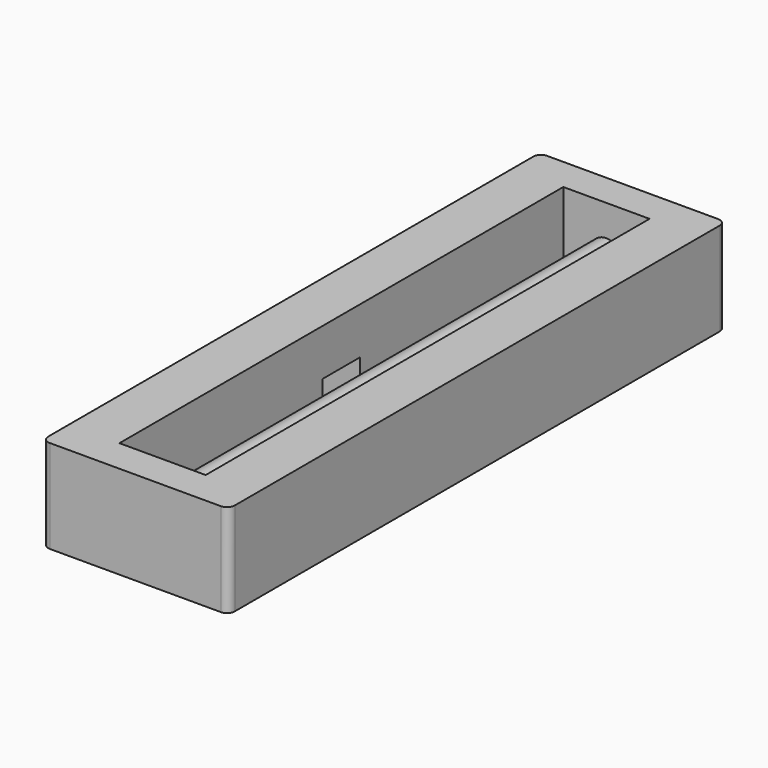
from build123d import *

# Parameters (mm, degrees)
F0_W     = 6
F0_H     = 20
F1_DEPTH = 3
F2_R     = 0.25
F3_W     = 2.773765591
F3_H     = 17.8463058546
F4_DEPTH = 5.9
F6_R     = 0.5
F7_DEPTH = 19.2
F8_W     = 1.5
F8_H     = 3
F9_DEPTH = 3.6


with BuildPart() as f1:
    # F0 (on Top) → F1 (new body)
    with BuildSketch(Plane.XY):
        Rectangle(F0_W, F0_H)
    extrude(amount=F1_DEPTH)

    # F2
    f2_edges = [f1.edges().sort_by_distance(p)[0] for p in [
        (3, 10, 1.5),
        (-3, 10, 1.5),
        (-3, -10, 1.5),
        (3, -10, 1.5),
    ]]
    fillet(f2_edges, radius=F2_R)

    # F3 (on Top) → F4 (cut)
    with BuildSketch(Plane.XY):
        with Locations((0.008794188, 0.008943025)):
            Rectangle(F3_W, F3_H)
    extrude(amount=F4_DEPTH, mode=Mode.SUBTRACT)

    # F6 (on offset) → F7 (join)
    with BuildSketch(Plane.XZ.offset(10)):
        with Locations((0, 1.5)):
            Circle(F6_R)
    extrude(amount=-F7_DEPTH)

    # F8 (on face) → F9 (cut)
    with BuildSketch(Plane.YZ.offset(-1.3780886075)):
        Rectangle(F8_W, F8_H)
    extrude(amount=-F9_DEPTH, mode=Mode.SUBTRACT)


solid = f1.part
